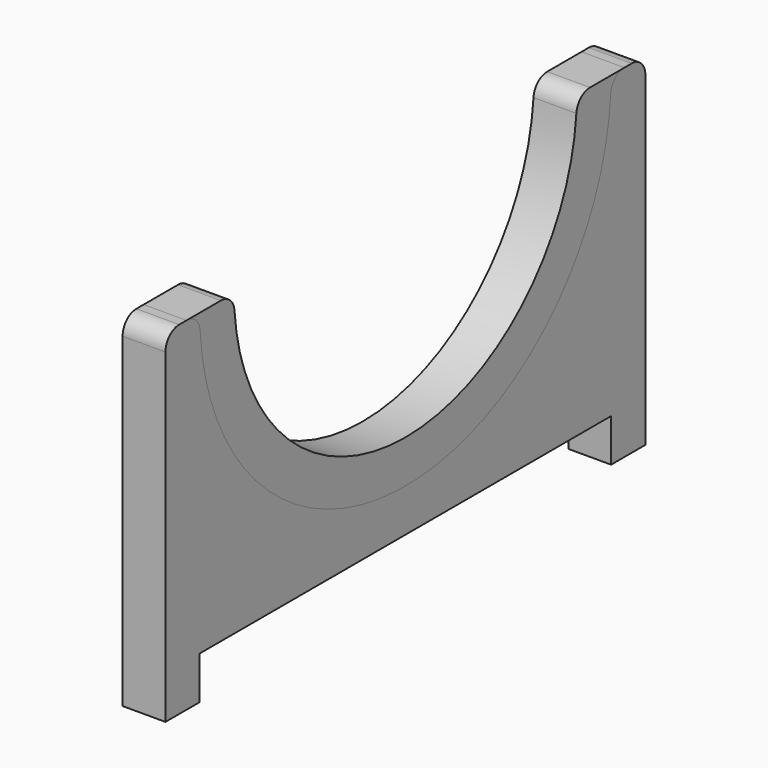
from build123d import *

# Parameters (mm, degrees)
F1_DEPTH = 6.35
F3_DEPTH = 6.35
F6_DEPTH = 6.35


with BuildPart() as f1:
    # F0 (on Right) → F1 (new body)
    with BuildSketch(Plane.YZ):
        with BuildLine():
            Line((-34.195797, 0), (-41.91, 0))
            ThreePointArc((-41.91, 0), (-43.706051, -0.743949), (-44.45, -2.54))
            Line((-44.45, -2.54), (-44.45, -44.45))
            Line((-44.45, -44.45), (-44.447301, -44.45))
            Line((-44.447301, -44.45), (-44.447301, -50.8))
            Line((-44.447301, -50.8), (-38.097301, -50.8))
            Line((-38.097301, -50.8), (-38.097301, -44.45))
            Line((-38.097301, -44.45), (38.086154, -44.45))
            Line((38.086154, -44.45), (38.086154, -50.777279))
            Line((38.086154, -50.777279), (44.436154, -50.777279))
            Line((44.436154, -50.777279), (44.436154, -44.45))
            Line((44.436154, -44.45), (44.45, -44.45))
            Line((44.45, -44.45), (44.45, -2.54))
            ThreePointArc((44.45, -2.54), (43.706051, -0.743949), (41.91, 0))
            Line((41.91, 0), (34.195797, 0))
            ThreePointArc((34.195797, 0), (32.467545, -0.678617), (31.662775, -2.351852))
            ThreePointArc((31.662775, -2.351852), (0, -31.75), (-31.662775, -2.351852))
            ThreePointArc((-31.662775, -2.351852), (-32.467545, -0.678617), (-34.195797, 0))
        make_face()
    extrude(amount=F1_DEPTH)


with BuildPart() as f3:
    # F2 (on Right) → F3 (new body)
    with BuildSketch(Plane.YZ):
        with BuildLine():
            Line((-34.195797, 0), (-41.91, 0))
            ThreePointArc((-41.91, 0), (-43.706051, -0.743949), (-44.45, -2.54))
            Line((-44.45, -2.54), (-44.45, -50.8))
            Line((-44.45, -50.8), (-38.1, -50.8))
            Line((-38.1, -50.8), (-38.1, -44.45))
            Line((-38.1, -44.45), (38.1, -44.45))
            Line((38.1, -44.45), (38.1, -50.8))
            Line((38.1, -50.8), (44.45, -50.8))
            Line((44.45, -50.8), (44.45, -2.54))
            ThreePointArc((44.45, -2.54), (43.706051, -0.743949), (41.91, 0))
            Line((41.91, 0), (34.195797, 0))
            ThreePointArc((34.195797, 0), (32.467545, -0.678617), (31.662775, -2.351852))
            ThreePointArc((31.662775, -2.351852), (0, -31.75), (-31.662775, -2.351852))
            ThreePointArc((-31.662775, -2.351852), (-32.467545, -0.678617), (-34.195797, 0))
        make_face()
    extrude(amount=F3_DEPTH)


with BuildPart() as f6:
    # F4 (on Right) → F6 (new body)
    with BuildSketch(Plane.YZ):
        with BuildLine():
            Line((-40.560547, 0), (-41.91, 0))
            ThreePointArc((-41.91, 0), (-43.706051, -0.743949), (-44.45, -2.54))
            Line((-44.45, -2.54), (-44.45, -44.45))
            Line((-44.45, -44.45), (-44.45, -50.8))
            Line((-44.45, -50.8), (-38.1, -50.8))
            Line((-38.1, -50.8), (-38.1, -44.45))
            Line((-38.1, -44.45), (38.1, -44.45))
            Line((38.1, -44.45), (38.1, -50.8))
            Line((38.1, -50.8), (44.45, -50.8))
            Line((44.45, -50.8), (44.45, -44.45))
            Line((44.45, -44.45), (44.45, -2.54))
            ThreePointArc((44.45, -2.54), (43.706051, -0.743949), (41.91, 0))
            Line((41.91, 0), (40.560547, 0))
            ThreePointArc((40.560547, 0), (38.821528, -0.688673), (38.025513, -2.38125))
            ThreePointArc((38.025513, -2.38125), (0, -38.1), (-38.025513, -2.38125))
            ThreePointArc((-38.025513, -2.38125), (-38.821528, -0.688673), (-40.560547, 0))
        make_face()
    extrude(amount=F6_DEPTH)


solid = Compound([f3.part, f6.part])
